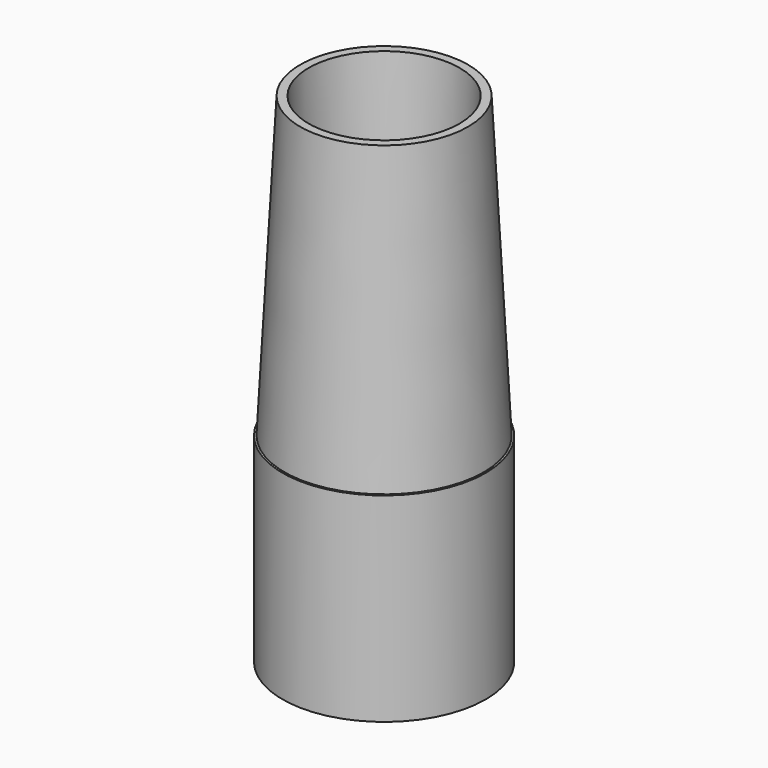
from build123d import *

# Parameters (mm, degrees)
F0_R     = 5.1
F0_R_2   = 3
F1_DEPTH = 10
F2_R     = 5
F2_R_2   = 3
F3_DEPTH = 15
F3_TAPER = 3


with BuildPart() as f1:
    # F0 (on Top) → F1 (new body)
    with BuildSketch(Plane.XY):
        Circle(F0_R)
        Circle(F0_R_2, mode=Mode.SUBTRACT)
    extrude(amount=F1_DEPTH)

    # F2 (on face) → F3 (join)
    with BuildSketch(Plane.XY.offset(10)):
        Circle(F2_R)
        Circle(F2_R_2, mode=Mode.SUBTRACT)
    extrude(amount=F3_DEPTH, taper=F3_TAPER)


solid = f1.part
